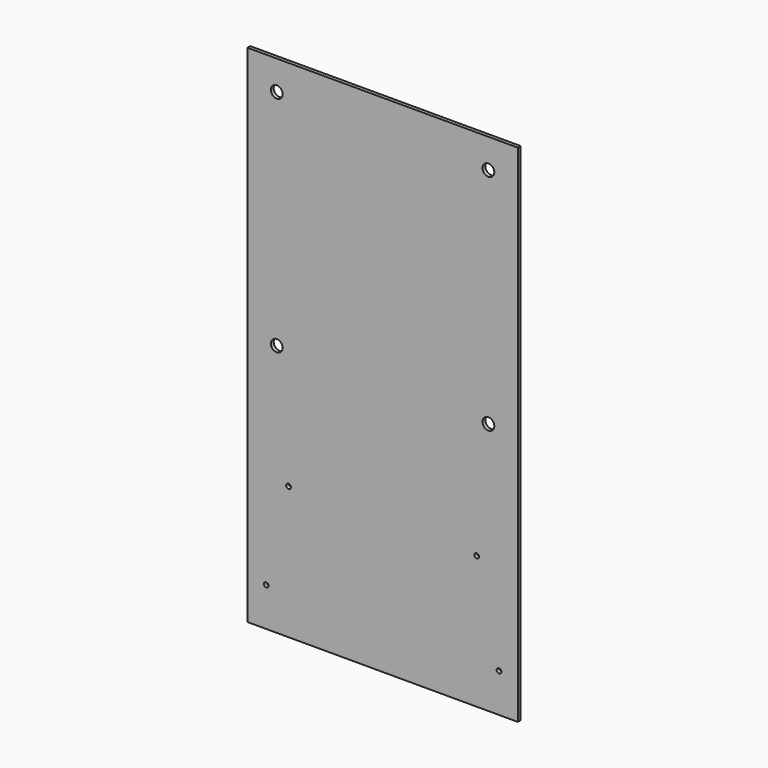
from build123d import *

# Parameters (mm, degrees)
F0_W     = 230
F0_H     = 430
F0_R     = 2
F0_R_2   = 5
F1_DEPTH = 3


with BuildPart() as f1:
    # F0 (on Front) → F1 (new body)
    with BuildSketch(Plane.XZ):
        Rectangle(F0_W, F0_H)
        with Locations((-99, -182)):
            Circle(F0_R, mode=Mode.SUBTRACT)
        with Locations((-80, -102)):
            Circle(F0_R, mode=Mode.SUBTRACT)
        with Locations((99, -182)):
            Circle(F0_R, mode=Mode.SUBTRACT)
        with Locations((80, -102)):
            Circle(F0_R, mode=Mode.SUBTRACT)
        with Locations((-90, 0)):
            Circle(F0_R_2, mode=Mode.SUBTRACT)
        with Locations((-90, 190)):
            Circle(F0_R_2, mode=Mode.SUBTRACT)
        with Locations((90, 0)):
            Circle(F0_R_2, mode=Mode.SUBTRACT)
        with Locations((90, 190)):
            Circle(F0_R_2, mode=Mode.SUBTRACT)
    extrude(amount=F1_DEPTH)


solid = f1.part
